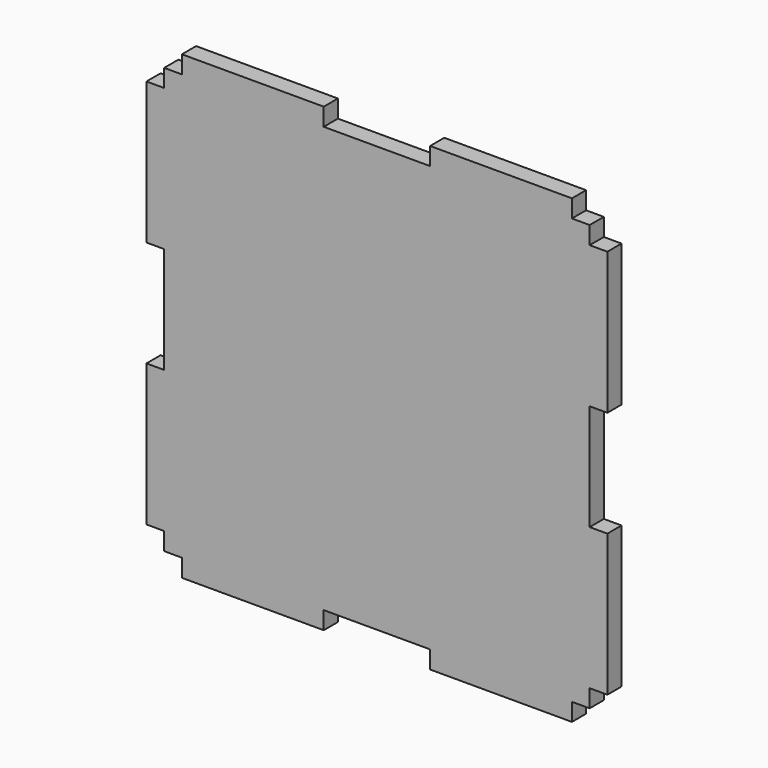
from build123d import *

# Parameters (mm, degrees)
F0_W     = 50.8
F0_H     = 6.35
F0_W_2   = 6.35
F0_H_2   = 50.8
F1_DEPTH = 6.35


with BuildPart() as f1:
    # F0 (on Front) → F1 (new body)
    with BuildSketch(Plane.XZ):
        Polygon((69.85, -76.2), (76.2, -76.2), (76.2, -69.85), (76.2, -19.05), (76.2, 19.05), (76.2, 69.85), (76.2, 76.2), (69.85, 76.2), (19.05, 76.2), (-19.05, 76.2), (-69.85, 76.2), (-76.2, 76.2), (-76.2, 69.85), (-76.2, 19.05), (-76.2, -19.05), (-76.2, -69.85), (-76.2, -76.2), (-69.85, -76.2), (-19.05, -76.2), (19.05, -76.2), align=None)
        with Locations((44.45, -79.375)):
            Rectangle(F0_W, F0_H)
        with Locations((79.375, -44.45)):
            Rectangle(F0_W_2, F0_H_2)
        with Locations((-44.45, -79.375)):
            Rectangle(F0_W, F0_H)
        with Locations((79.375, 44.45)):
            Rectangle(F0_W_2, F0_H_2)
        with Locations((-79.375, -44.45)):
            Rectangle(F0_W_2, F0_H_2)
        with Locations((44.45, 79.375)):
            Rectangle(F0_W, F0_H)
        with Locations((-79.375, 44.45)):
            Rectangle(F0_W_2, F0_H_2)
        with Locations((-44.45, 79.375)):
            Rectangle(F0_W, F0_H)
    extrude(amount=F1_DEPTH)


solid = f1.part
